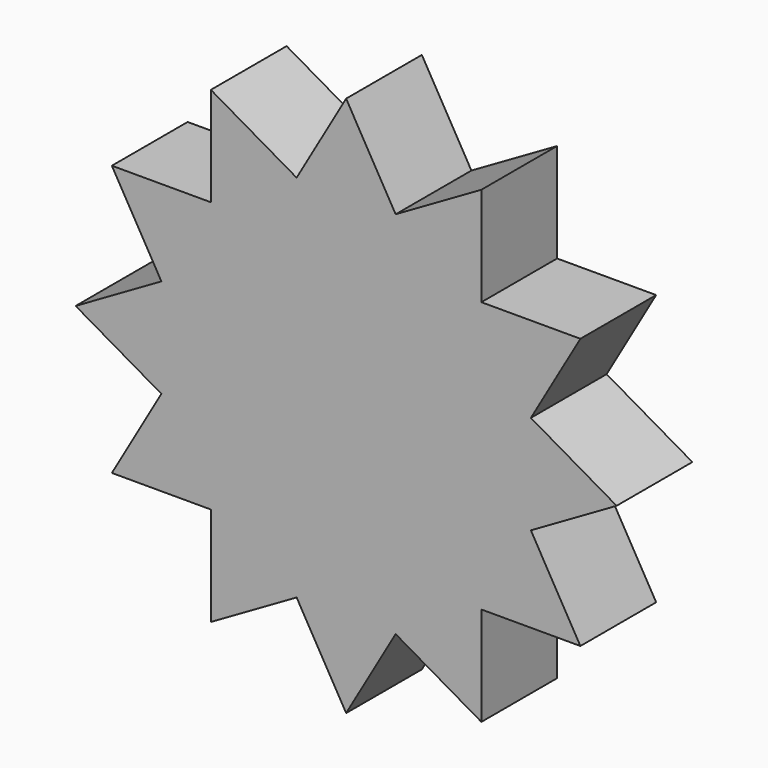
from build123d import *

# Parameters (mm, degrees)
F0_R     = 38.1
F1_DEPTH = 25.4


with BuildPart() as f1:
    # F0 (on Front) → F1 (new body)
    with BuildSketch(Plane.XZ):
        with BuildLine():
            ThreePointArc((49.1988245643, 12.6536817364), (50.3981164721, 6.3772922205), (50.8, 0))
            ThreePointArc((50.8, 0), (50.3981164721, -6.3772922205), (49.1988245643, -12.6536817364))
            Line((49.1988245643, -12.6536817364), (49.5602090261, -13.2796179853))
            Line((49.5602090261, -13.2796179853), (72.5611820817, 0))
            Line((72.5611820817, 0), (49.5602090261, 13.2796179853))
            Line((49.5602090261, 13.2796179853), (49.1988245643, 12.6536817364))
        make_face()
        with BuildLine():
            ThreePointArc((48.9342727773, 13.641002447), (49.0690319755, 13.1480074912), (49.1988245643, 12.6536817364))
            Line((49.1988245643, 12.6536817364), (49.5602090261, 13.2796179853))
            Line((49.5602090261, 13.2796179853), (48.9342727773, 13.641002447))
        make_face()
        with BuildLine():
            Line((49.5602090261, -13.2796179853), (49.1988245643, -12.6536817364))
            ThreePointArc((49.1988245643, -12.6536817364), (49.0690319755, -13.1480074912), (48.9342727773, -13.641002447))
            Line((48.9342727773, -13.641002447), (49.5602090261, -13.2796179853))
        make_face()
        with BuildLine():
            ThreePointArc((36.2805910408, 35.5578221173), (43.9940905122, 25.4), (48.9342727773, 13.641002447))
            Line((48.9342727773, 13.641002447), (49.5602090261, 13.2796179853))
            Line((49.5602090261, 13.2796179853), (62.8398270114, 36.2805910408))
            Line((62.8398270114, 36.2805910408), (36.2805910408, 36.2805910408))
            Line((36.2805910408, 36.2805910408), (36.2805910408, 35.5578221173))
        make_face()
        with BuildLine():
            Line((49.5602090261, -13.2796179853), (48.9342727773, -13.641002447))
            ThreePointArc((48.9342727773, -13.641002447), (43.9940905122, -25.4), (36.2805910408, -35.5578221173))
            Line((36.2805910408, -35.5578221173), (36.2805910408, -36.2805910408))
            Line((36.2805910408, -36.2805910408), (62.8398270114, -36.2805910408))
            Line((62.8398270114, -36.2805910408), (49.5602090261, -13.2796179853))
        make_face()
        with BuildLine():
            ThreePointArc((35.5578221173, 36.2805910408), (35.9210244843, 35.9210244843), (36.2805910408, 35.5578221173))
            Line((36.2805910408, 35.5578221173), (36.2805910408, 36.2805910408))
            Line((36.2805910408, 36.2805910408), (35.5578221173, 36.2805910408))
        make_face()
        with BuildLine():
            Line((36.2805910408, -36.2805910408), (36.2805910408, -35.5578221173))
            ThreePointArc((36.2805910408, -35.5578221173), (35.9210244843, -35.9210244843), (35.5578221173, -36.2805910408))
            Line((35.5578221173, -36.2805910408), (36.2805910408, -36.2805910408))
        make_face()
        with BuildLine():
            ThreePointArc((13.641002447, 48.9342727773), (25.4, 43.9940905122), (35.5578221173, 36.2805910408))
            Line((35.5578221173, 36.2805910408), (36.2805910408, 36.2805910408))
            Line((36.2805910408, 36.2805910408), (36.2805910408, 62.8398270114))
            Line((36.2805910408, 62.8398270114), (13.2796179853, 49.5602090261))
            Line((13.2796179853, 49.5602090261), (13.641002447, 48.9342727773))
        make_face()
        with BuildLine():
            Line((36.2805910408, -36.2805910408), (35.5578221173, -36.2805910408))
            ThreePointArc((35.5578221173, -36.2805910408), (25.4, -43.9940905122), (13.641002447, -48.9342727773))
            Line((13.641002447, -48.9342727773), (13.2796179853, -49.5602090261))
            Line((13.2796179853, -49.5602090261), (36.2805910408, -62.8398270114))
            Line((36.2805910408, -62.8398270114), (36.2805910408, -36.2805910408))
        make_face()
        with BuildLine():
            ThreePointArc((12.6536817364, 49.1988245643), (13.1480074912, 49.0690319755), (13.641002447, 48.9342727773))
            Line((13.641002447, 48.9342727773), (13.2796179853, 49.5602090261))
            Line((13.2796179853, 49.5602090261), (12.6536817364, 49.1988245643))
        make_face()
        with BuildLine():
            Line((13.2796179853, -49.5602090261), (13.641002447, -48.9342727773))
            ThreePointArc((13.641002447, -48.9342727773), (13.1480074912, -49.0690319755), (12.6536817364, -49.1988245643))
            Line((12.6536817364, -49.1988245643), (13.2796179853, -49.5602090261))
        make_face()
        with BuildLine():
            ThreePointArc((-12.6536817364, 49.1988245643), (0, 50.8), (12.6536817364, 49.1988245643))
            Line((12.6536817364, 49.1988245643), (13.2796179853, 49.5602090261))
            Line((13.2796179853, 49.5602090261), (0, 72.5611820817))
            Line((0, 72.5611820817), (-13.2796179853, 49.5602090261))
            Line((-13.2796179853, 49.5602090261), (-12.6536817364, 49.1988245643))
        make_face()
        with BuildLine():
            Line((13.2796179853, -49.5602090261), (12.6536817364, -49.1988245643))
            ThreePointArc((12.6536817364, -49.1988245643), (0, -50.8), (-12.6536817364, -49.1988245643))
            Line((-12.6536817364, -49.1988245643), (-13.2796179853, -49.5602090261))
            Line((-13.2796179853, -49.5602090261), (0, -72.5611820817))
            Line((0, -72.5611820817), (13.2796179853, -49.5602090261))
        make_face()
        with BuildLine():
            ThreePointArc((-13.641002447, 48.9342727773), (-13.1480074912, 49.0690319755), (-12.6536817364, 49.1988245643))
            Line((-12.6536817364, 49.1988245643), (-13.2796179853, 49.5602090261))
            Line((-13.2796179853, 49.5602090261), (-13.641002447, 48.9342727773))
        make_face()
        with BuildLine():
            Line((-13.2796179853, -49.5602090261), (-12.6536817364, -49.1988245643))
            ThreePointArc((-12.6536817364, -49.1988245643), (-13.1480074912, -49.0690319755), (-13.641002447, -48.9342727773))
            Line((-13.641002447, -48.9342727773), (-13.2796179853, -49.5602090261))
        make_face()
        with BuildLine():
            ThreePointArc((-35.5578221173, 36.2805910408), (-25.4, 43.9940905122), (-13.641002447, 48.9342727773))
            Line((-13.641002447, 48.9342727773), (-13.2796179853, 49.5602090261))
            Line((-13.2796179853, 49.5602090261), (-36.2805910408, 62.8398270114))
            Line((-36.2805910408, 62.8398270114), (-36.2805910408, 36.2805910408))
            Line((-36.2805910408, 36.2805910408), (-35.5578221173, 36.2805910408))
        make_face()
        with BuildLine():
            Line((-13.2796179853, -49.5602090261), (-13.641002447, -48.9342727773))
            ThreePointArc((-13.641002447, -48.9342727773), (-25.4, -43.9940905122), (-35.5578221173, -36.2805910408))
            Line((-35.5578221173, -36.2805910408), (-36.2805910408, -36.2805910408))
            Line((-36.2805910408, -36.2805910408), (-36.2805910408, -62.8398270114))
            Line((-36.2805910408, -62.8398270114), (-13.2796179853, -49.5602090261))
        make_face()
        with BuildLine():
            ThreePointArc((-36.2805910408, 35.5578221173), (-35.9210244843, 35.9210244843), (-35.5578221173, 36.2805910408))
            Line((-35.5578221173, 36.2805910408), (-36.2805910408, 36.2805910408))
            Line((-36.2805910408, 36.2805910408), (-36.2805910408, 35.5578221173))
        make_face()
        with BuildLine():
            Line((-36.2805910408, -36.2805910408), (-35.5578221173, -36.2805910408))
            ThreePointArc((-35.5578221173, -36.2805910408), (-35.9210244843, -35.9210244843), (-36.2805910408, -35.5578221173))
            Line((-36.2805910408, -35.5578221173), (-36.2805910408, -36.2805910408))
        make_face()
        with BuildLine():
            ThreePointArc((-48.9342727773, 13.641002447), (-43.9940905122, 25.4), (-36.2805910408, 35.5578221173))
            Line((-36.2805910408, 35.5578221173), (-36.2805910408, 36.2805910408))
            Line((-36.2805910408, 36.2805910408), (-62.8398270114, 36.2805910408))
            Line((-62.8398270114, 36.2805910408), (-49.5602090261, 13.2796179853))
            Line((-49.5602090261, 13.2796179853), (-48.9342727773, 13.641002447))
        make_face()
        with BuildLine():
            Line((-36.2805910408, -36.2805910408), (-36.2805910408, -35.5578221173))
            ThreePointArc((-36.2805910408, -35.5578221173), (-43.9940905122, -25.4), (-48.9342727773, -13.641002447))
            Line((-48.9342727773, -13.641002447), (-49.5602090261, -13.2796179853))
            Line((-49.5602090261, -13.2796179853), (-62.8398270114, -36.2805910408))
            Line((-62.8398270114, -36.2805910408), (-36.2805910408, -36.2805910408))
        make_face()
        with BuildLine():
            ThreePointArc((-49.1988245643, 12.6536817364), (-49.0690319755, 13.1480074912), (-48.9342727773, 13.641002447))
            Line((-48.9342727773, 13.641002447), (-49.5602090261, 13.2796179853))
            Line((-49.5602090261, 13.2796179853), (-49.1988245643, 12.6536817364))
        make_face()
        with BuildLine():
            Line((-49.5602090261, -13.2796179853), (-48.9342727773, -13.641002447))
            ThreePointArc((-48.9342727773, -13.641002447), (-49.0690319755, -13.1480074912), (-49.1988245643, -12.6536817364))
            Line((-49.1988245643, -12.6536817364), (-49.5602090261, -13.2796179853))
        make_face()
        with BuildLine():
            ThreePointArc((-49.1988245643, -12.6536817364), (-50.8, 0), (-49.1988245643, 12.6536817364))
            Line((-49.1988245643, 12.6536817364), (-49.5602090261, 13.2796179853))
            Line((-49.5602090261, 13.2796179853), (-72.5611820817, 0))
            Line((-72.5611820817, 0), (-49.5602090261, -13.2796179853))
            Line((-49.5602090261, -13.2796179853), (-49.1988245643, -12.6536817364))
        make_face()
        with BuildLine():
            ThreePointArc((49.1988245643, -12.6536817364), (50.3981164721, -6.3772922205), (50.8, 0))
            ThreePointArc((50.8, 0), (50.3981164721, 6.3772922205), (49.1988245643, 12.6536817364))
            ThreePointArc((49.1988245643, 12.6536817364), (49.0690319755, 13.1480074912), (48.9342727773, 13.641002447))
            ThreePointArc((48.9342727773, 13.641002447), (43.9940905122, 25.4), (36.2805910408, 35.5578221173))
            ThreePointArc((36.2805910408, 35.5578221173), (35.9210244843, 35.9210244843), (35.5578221173, 36.2805910408))
            ThreePointArc((35.5578221173, 36.2805910408), (25.4, 43.9940905122), (13.641002447, 48.9342727773))
            ThreePointArc((13.641002447, 48.9342727773), (13.1480074912, 49.0690319755), (12.6536817364, 49.1988245643))
            ThreePointArc((12.6536817364, 49.1988245643), (0, 50.8), (-12.6536817364, 49.1988245643))
            ThreePointArc((-12.6536817364, 49.1988245643), (-13.1480074912, 49.0690319755), (-13.641002447, 48.9342727773))
            ThreePointArc((-13.641002447, 48.9342727773), (-25.4, 43.9940905122), (-35.5578221173, 36.2805910408))
            ThreePointArc((-35.5578221173, 36.2805910408), (-35.9210244843, 35.9210244843), (-36.2805910408, 35.5578221173))
            ThreePointArc((-36.2805910408, 35.5578221173), (-43.9940905122, 25.4), (-48.9342727773, 13.641002447))
            ThreePointArc((-48.9342727773, 13.641002447), (-49.0690319755, 13.1480074912), (-49.1988245643, 12.6536817364))
            ThreePointArc((-49.1988245643, 12.6536817364), (-50.8, 0), (-49.1988245643, -12.6536817364))
            ThreePointArc((-49.1988245643, -12.6536817364), (-49.0690319755, -13.1480074912), (-48.9342727773, -13.641002447))
            ThreePointArc((-48.9342727773, -13.641002447), (-43.9940905122, -25.4), (-36.2805910408, -35.5578221173))
            ThreePointArc((-36.2805910408, -35.5578221173), (-35.9210244843, -35.9210244843), (-35.5578221173, -36.2805910408))
            ThreePointArc((-35.5578221173, -36.2805910408), (-25.4, -43.9940905122), (-13.641002447, -48.9342727773))
            ThreePointArc((-13.641002447, -48.9342727773), (-13.1480074912, -49.0690319755), (-12.6536817364, -49.1988245643))
            ThreePointArc((-12.6536817364, -49.1988245643), (0, -50.8), (12.6536817364, -49.1988245643))
            ThreePointArc((12.6536817364, -49.1988245643), (13.1480074912, -49.0690319755), (13.641002447, -48.9342727773))
            ThreePointArc((13.641002447, -48.9342727773), (25.4, -43.9940905122), (35.5578221173, -36.2805910408))
            ThreePointArc((35.5578221173, -36.2805910408), (35.9210244843, -35.9210244843), (36.2805910408, -35.5578221173))
            ThreePointArc((36.2805910408, -35.5578221173), (43.9940905122, -25.4), (48.9342727773, -13.641002447))
            ThreePointArc((48.9342727773, -13.641002447), (49.0690319755, -13.1480074912), (49.1988245643, -12.6536817364))
        make_face()
        Circle(F0_R, mode=Mode.SUBTRACT)
        Circle(F0_R)
    extrude(amount=F1_DEPTH)


solid = f1.part
